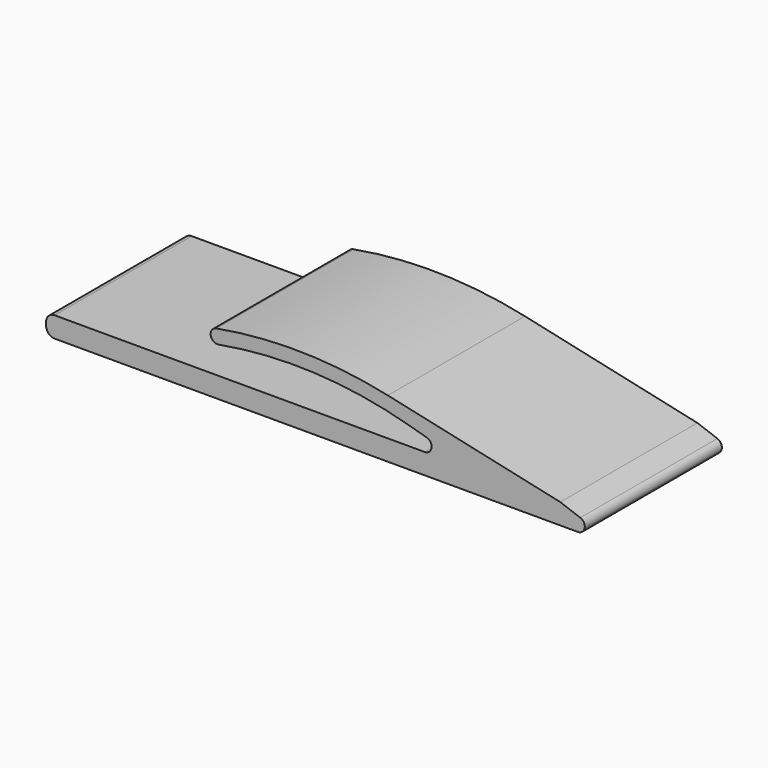
from build123d import *

# Parameters (mm, degrees)
PAD_DEPTH   = 25
FILLET_R    = 1.25
FILLET001_R = 1


with BuildPart() as part:
    # Sketch → Pad (new body)
    with BuildSketch(Plane.XZ):
        with BuildLine():
            Line((-75, 0), (0, 0))
            Line((0, 0), (8.242432, 0))
            Line((8.242432, 0), (0, 3))
            Line((0, 3), (-25.154795, 8.517473))
            ThreePointArc((-25.154795, 8.517473), (-37.643151, 9.988902), (-50.177682, 8.984088))
            ThreePointArc((-50.177682, 8.984088), (-50.984088, 7.822318), (-49.822318, 7.015912))
            ThreePointArc((-22.128287, 5.701128), (-35.900676, 7.930421), (-49.822318, 7.015912))
            Line((-22.128287, 5.701128), (-12.5, 3))
            Line((-12.5, 3), (-75, 3))
            Line((-75, 3), (-75, 0))
        make_face()
    extrude(amount=PAD_DEPTH)

    # Fillet
    fillet_edges = [part.edges().sort_by_distance(p)[0] for p in [
        (-75, -12.5, 3),
        (-75, -12.5, 0),
    ]]
    fillet(fillet_edges, radius=FILLET_R)

    # Fillet001
    fillet001_edges = [part.edges().sort_by_distance(p)[0] for p in [
        (-12.5, -12.5, 3),
        (8.242432, -12.5, 0),
    ]]
    fillet(fillet001_edges, radius=FILLET001_R)


solid = part.part
